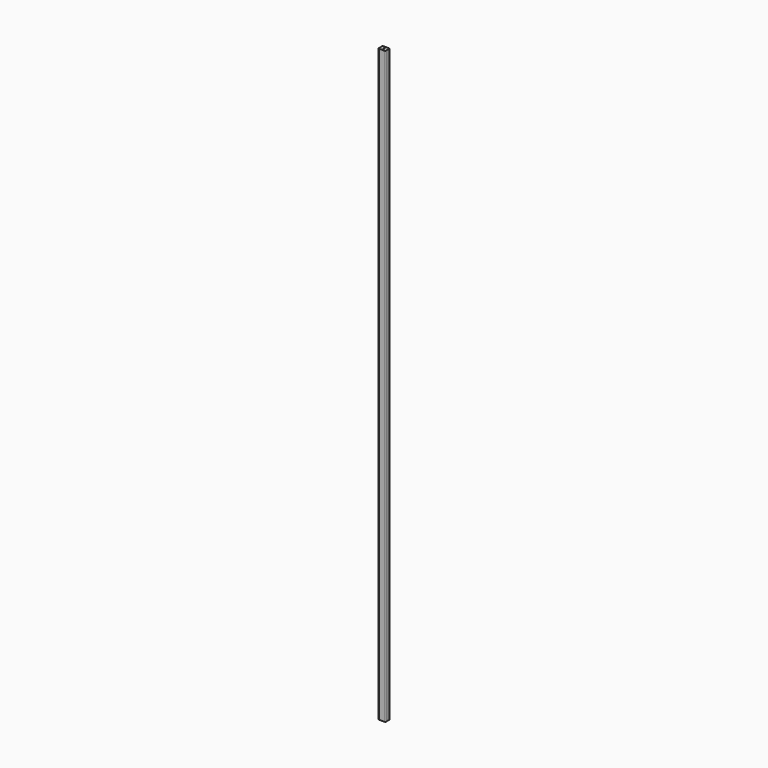
from build123d import *

# Parameters (mm, degrees)
F1_DEPTH  = 4775.2
F2_R      = 12.7
F3_DEPTH  = 38.1
F4_W      = 12.7
F4_H      = 4699
F5_DEPTH  = 6.35
F6_R      = 4.7625
F7_DEPTH  = 38.1
F8_R      = 4.7625
F9_DEPTH  = 38.1
F10_R     = 1.905
F11_DEPTH = 25.4


with BuildPart() as f1:
    # F0 (on Top) → F1 (new body)
    with BuildSketch(Plane.XY):
        with BuildLine():
            Line((-22.225, -22.225), (22.225, -22.225))
            ThreePointArc((22.225, -22.225), (26.7151280605, -20.3651280605), (28.575, -15.875))
            Line((28.575, -15.875), (28.575, 15.875))
            ThreePointArc((28.575, 15.875), (26.7151280605, 20.3651280605), (22.225, 22.225))
            Line((22.225, 22.225), (-22.225, 22.225))
            ThreePointArc((-22.225, 22.225), (-26.7151280605, 20.3651280605), (-28.575, 15.875))
            Line((-28.575, 15.875), (-28.575, -15.875))
            ThreePointArc((-28.575, -15.875), (-26.7151280605, -20.3651280605), (-22.225, -22.225))
        make_face()
    extrude(amount=F1_DEPTH)

    # F2 (on face) → F3 (cut)
    with BuildSketch(Plane(origin=(0, 22.225, 0), x_dir=(-1, 0, 0), z_dir=(0, 1, 0))):
        with Locations((0, 38.1)):
            Circle(F2_R)
        with Locations((0, 4737.1)):
            Circle(F2_R)
    extrude(amount=-F3_DEPTH, mode=Mode.SUBTRACT)

    # F4 (on face) → F5 (cut)
    with BuildSketch(Plane(origin=(0, 22.225, 0), x_dir=(-1, 0, 0), z_dir=(0, 1, 0))):
        with Locations((0, 2387.6)):
            Rectangle(F4_W, F4_H)
    extrude(amount=-F5_DEPTH, mode=Mode.SUBTRACT)

    # F6 (on face) → F7 (cut)
    with BuildSketch(Plane.XY.offset(4775.2)):
        Circle(F6_R)
    extrude(amount=-F7_DEPTH, mode=Mode.SUBTRACT)

    # F8 (on face) → F9 (cut)
    with BuildSketch(Plane(origin=(0, 0, 0), x_dir=(1, 0, 0), z_dir=(0, 0, -1))):
        Circle(F8_R)
    extrude(amount=-F9_DEPTH, mode=Mode.SUBTRACT)

    # F10 (on face) → F11 (cut)
    with BuildSketch(Plane(origin=(0, 15.875, 0), x_dir=(-1, 0, 0), z_dir=(0, 1, 0))):
        with Locations((0, 4666.9325)):
            Circle(F10_R)
        with Locations((0, 108.2675)):
            Circle(F10_R)
    extrude(amount=-F11_DEPTH, mode=Mode.SUBTRACT)


solid = f1.part
